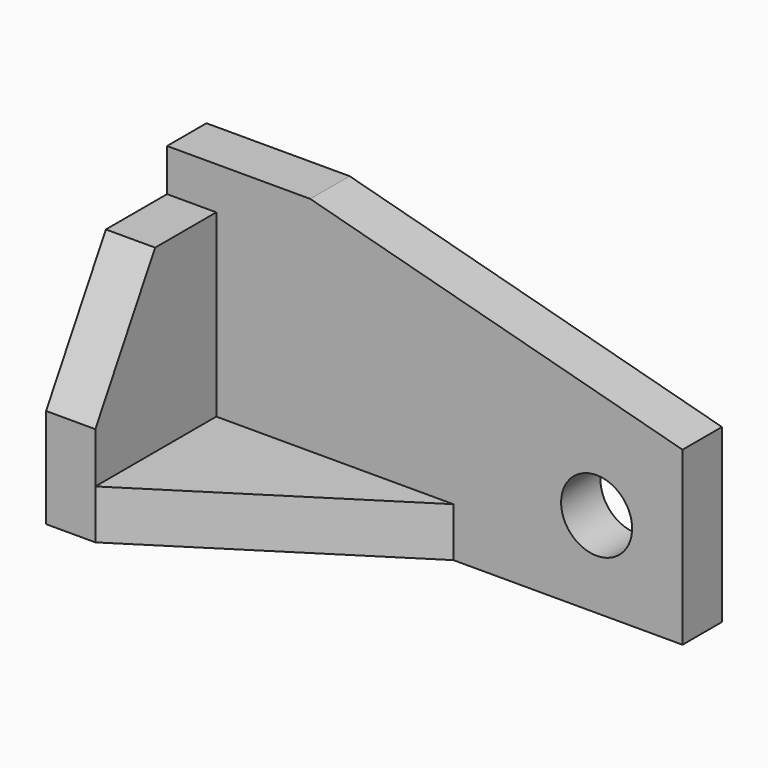
from build123d import *

# Parameters (mm, degrees)
F0_W      = 114.3
F0_H      = 10.922
F2_DEPTH  = 60.198
F3_SIZE2  = 22.1192058352
F3_SIZE   = 82.55
F4_W      = 10.922
F4_H      = 33.528
F5_DEPTH  = 50.8
F9_DEPTH  = 40.386
F11_DEPTH = 10.922
F13_D     = 15.748


with BuildPart() as f2:
    # F0 (on Top) → F2 (new body)
    with BuildSketch(Plane.XY):
        with Locations((-9.5599141402, -17.3278991133)):
            Rectangle(F0_W, F0_H)
    extrude(amount=F2_DEPTH)

    # F3
    f3_edges = [f2.edges().sort_by_distance(p)[0] for p in [
        (47.590086, -17.327899, 60.198),
    ]]
    f3_side = f2.faces().sort_by_distance((-9.559914, -17.327899, 60.198))[0]
    chamfer(f3_edges, length=F3_SIZE, length2=F3_SIZE2, reference=f3_side)

    # F4 (on face) → F5 (join)
    with BuildSketch(Plane.XY):
        with Locations((-61.2489141402, -39.5528991133)):
            Rectangle(F4_W, F4_H)
    extrude(amount=F5_DEPTH)

    # F8 (on face) → F9 (cut)
    with BuildSketch(Plane.YZ.offset(-55.7879141402)):
        Polygon((-39.745791687, 50.8), (-56.3168991133, 50.8), (-56.3168991133, 22.098), align=None)
    extrude(amount=-F9_DEPTH, mode=Mode.SUBTRACT)

    # F10 (on face) → F11 (join)
    with BuildSketch(Plane.XY):
        Polygon((-3.2099141402, -22.7888991133), (-55.7879141402, -22.7888991133), (-55.7879141402, -56.3168991133), align=None)
    extrude(amount=F11_DEPTH)

    # F13 (through all)
    with Locations(Plane.XZ.offset(22.7888991133)):
        with Locations((28.5400858598, 19.05)):
            Hole(F13_D / 2)


solid = f2.part
